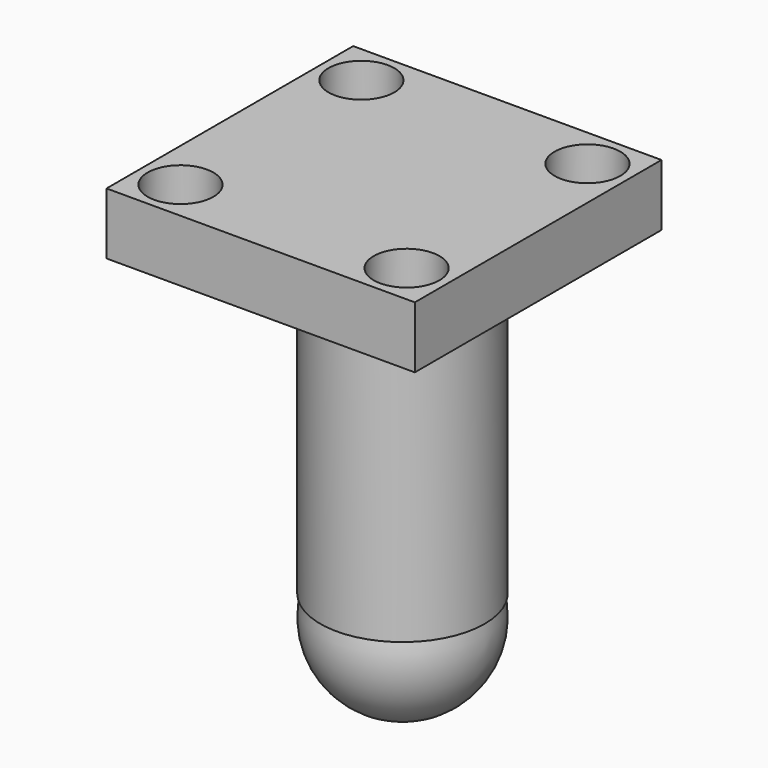
from build123d import *

# Parameters (mm, degrees)
CYLINDER013_R     = 1.6
CYLINDER013_DEPTH = 10
CYLINDER014_R     = 1.6
CYLINDER014_DEPTH = 10
CYLINDER015_R     = 1.6
CYLINDER015_DEPTH = 10
CYLINDER012_R     = 1.6
CYLINDER012_DEPTH = 10
BOX008_W          = 15
BOX008_H          = 15
BOX008_DEPTH      = 3
CYLINDER011_R     = 4
CYLINDER011_DEPTH = 15


with BuildPart() as cilindro013:
    # Cylinder013 → Cylinder013 (new body)
    with BuildSketch(Plane(origin=(32, 5, -20), x_dir=(1, 0, 0), z_dir=(0, 0, 1))):
        Circle(CYLINDER013_R)
    extrude(amount=CYLINDER013_DEPTH)


with BuildPart() as cilindro014:
    # Cylinder014 → Cylinder014 (new body)
    with BuildSketch(Plane(origin=(21, -6, -20), x_dir=(1, 0, 0), z_dir=(0, 0, 1))):
        Circle(CYLINDER014_R)
    extrude(amount=CYLINDER014_DEPTH)


with BuildPart() as cilindro015:
    # Cylinder015 → Cylinder015 (new body)
    with BuildSketch(Plane(origin=(21, 5, -20), x_dir=(1, 0, 0), z_dir=(0, 0, 1))):
        Circle(CYLINDER015_R)
    extrude(amount=CYLINDER015_DEPTH)


with BuildPart() as fusion005:
    # Cylinder012 → Cylinder012 (new body)
    with BuildSketch(Plane(origin=(32, -6, -20), x_dir=(1, 0, 0), z_dir=(0, 0, 1))):
        Circle(CYLINDER012_R)
    extrude(amount=CYLINDER012_DEPTH)

    # Fusion005: union Cilindro013, Cilindro014, Cilindro015
    add(cilindro013.part)
    add(cilindro014.part)
    add(cilindro015.part)


with BuildPart() as cubo008:
    # Box008 → Box008 (new body)
    with BuildSketch(Plane(origin=(-8, -8, 4), x_dir=(1, 0, 0), z_dir=(0, 0, 1))):
        with Locations((7.5, 7.5)):
            Rectangle(BOX008_W, BOX008_H)
    extrude(amount=BOX008_DEPTH)


with BuildPart() as esfera:
    # Sphere → Sphere (revolve)
    with BuildSketch(Plane(origin=(0, 0, -16), x_dir=(1, 0, 0), z_dir=(0, -1, 0))):
        with BuildLine():
            ThreePointArc((0, -4), (4, 0), (0, 4))
            Line((0, 4), (0, -4))
        make_face()
    revolve(axis=Axis((0, 0, -16), (0, 0, 1)))


with BuildPart() as obj1:
    # Cylinder011 → Cylinder011 (new body)
    with BuildSketch(Plane.XY.offset(-15)):
        Circle(CYLINDER011_R)
    extrude(amount=CYLINDER011_DEPTH)

    # Fusion010: union Esfera
    add(esfera.part)


with BuildPart() as obj1_1:
    # Fusion010 placement: moved
    add(obj1.part.moved(Location((0, 0, 4))))

    # Fusion011: union Cubo008
    add(cubo008.part)


with BuildPart() as obj1_2:
    # Fusion011 placement: moved
    add(obj1_1.part.moved(Location((27, 0, -22))))

    # Cut009: cut Fusion005
    add(fusion005.part, mode=Mode.SUBTRACT)


with BuildPart() as obj1_3:
    # Cut009 placement: moved
    add(obj1_2.part.moved(Location((20, 0, 0))))


solid = obj1_3.part
